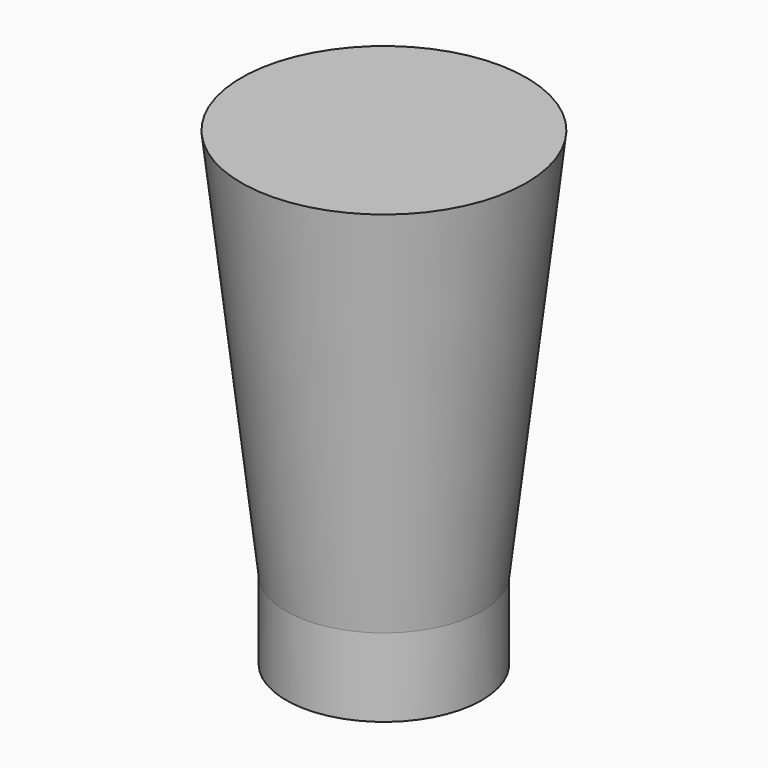
from build123d import *

# Parameters (mm, degrees)
F0_R          = 12.5
F1_DEPTH      = 50
F1_TAPER      = -6.5
F1_DEPTH_BACK = 10


with BuildPart() as f1:
    # F0 (on Top) → F1 (new body, two sides)
    with BuildSketch(Plane.XY) as f1_sk:
        Circle(F0_R)
    extrude(amount=F1_DEPTH, taper=F1_TAPER)
    extrude(f1_sk.sketch, amount=-F1_DEPTH_BACK)


solid = f1.part
